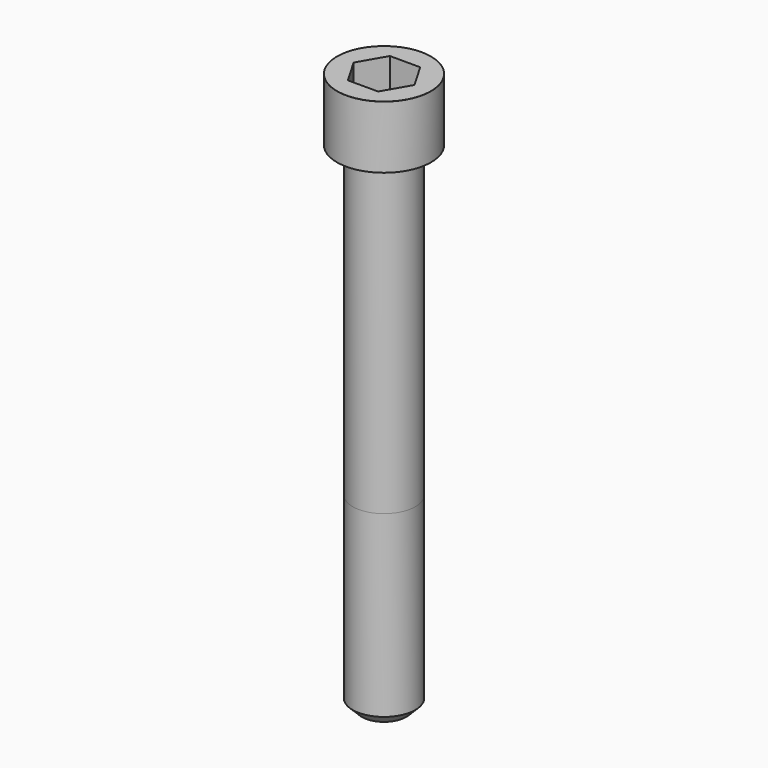
from build123d import *

# Parameters (mm, degrees)
POCKET_DEPTH = 10.07


with BuildPart() as part:
    # Sketch → Revolve (revolve)
    with BuildSketch(Plane.YZ):
        with BuildLine():
            Line((5.999, 0), (9, 0))
            Line((9, 0), (9, 11.97229))
            ThreePointArc((9, 11.97229), (8.991884, 11.991884), (8.97229, 12))
            Line((8.97229, 12), (0, 12))
            Line((0, -95), (0, 12))
            Line((4.25, -95), (0, -95))
            Line((6, -93.25), (4.25, -95))
            Line((6, -59), (6, -93.25))
            Line((5.999, 0), (6, -59))
        make_face()
    revolve(axis=Axis((0, 0, 0), (0, 0, 1)))

    # Sketch001 → Pocket (cut)
    with BuildSketch(Plane.XY.offset(12)):
        Polygon((5.813917, 0), (2.906959, 5.035), (-2.906959, 5.035), (-5.813917, 0), (-2.906959, -5.035), (2.906959, -5.035), align=None)
    extrude(amount=-POCKET_DEPTH, mode=Mode.SUBTRACT)


solid = part.part
